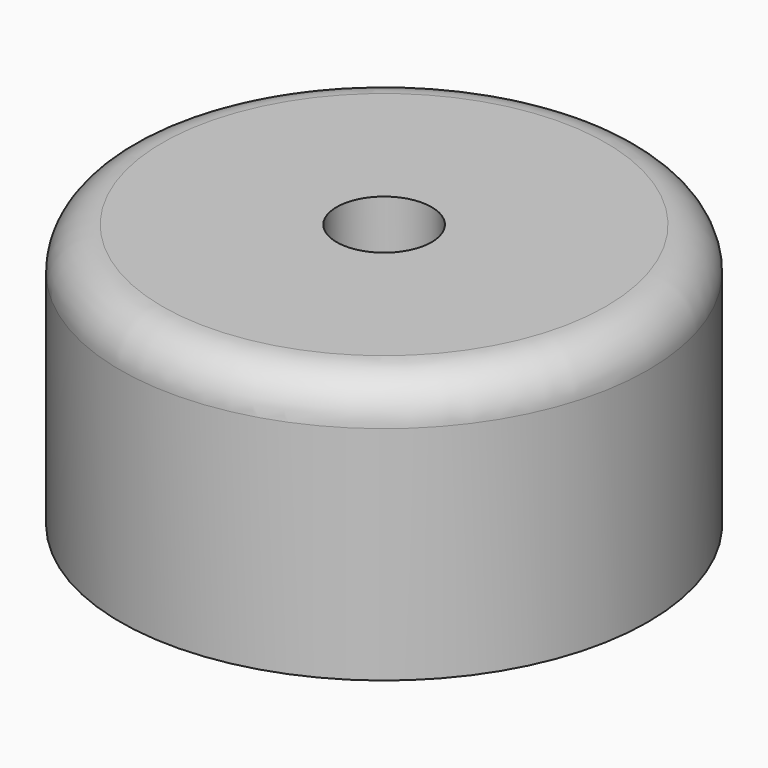
from build123d import *

# Parameters (mm, degrees)
F0_R     = 25
F1_DEPTH = 25
F2_R     = 2.625
F3_DEPTH = 25
F4_R     = 4.5
F5_DEPTH = 20
F6_R     = 4


with BuildPart() as f1:
    # F0 (on Top) → F1 (new body)
    with BuildSketch(Plane.XY):
        Circle(F0_R)
    extrude(amount=F1_DEPTH)

    # F2 (on face) → F3 (cut)
    with BuildSketch(Plane.XY.offset(25)):
        Circle(F2_R)
    extrude(amount=-F3_DEPTH, mode=Mode.SUBTRACT)

    # F4 (on face) → F5 (cut)
    with BuildSketch(Plane.XY.offset(25)):
        Circle(F4_R)
    extrude(amount=-F5_DEPTH, mode=Mode.SUBTRACT)

    # F6
    f6_edges = [f1.edges().sort_by_distance(p)[0] for p in [
        (-25, 0, 25),
    ]]
    fillet(f6_edges, radius=F6_R)


solid = f1.part
